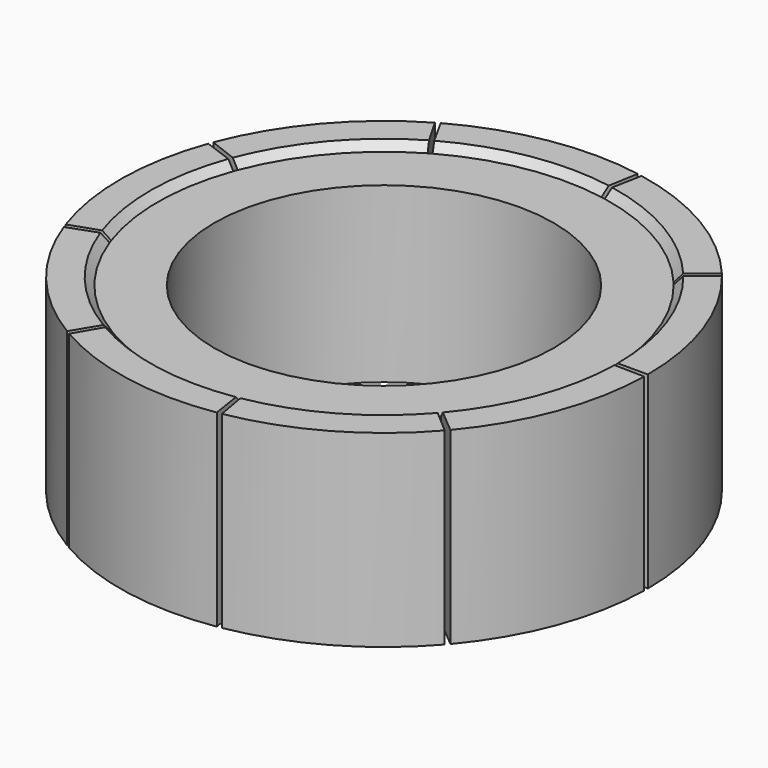
from build123d import *

# Parameters (mm, degrees)
CYLINDER015_R     = 4.5
CYLINDER015_DEPTH = 4.6
CYLINDER014_R     = 6
CYLINDER014_DEPTH = 4.6
CYLINDER013_W     = 6
CYLINDER013_H     = 5
CYLINDER013_ANGLE = 39
CYLINDER012_W     = 7
CYLINDER012_H     = 5
CYLINDER012_ANGLE = 39
CHAMFER007_SIZE   = 0.2
ARRAY001_COUNT    = 9


with BuildPart() as cilindro011:
    # Cylinder015 → Cylinder015 (new body)
    with BuildSketch(Plane.XY.offset(0.2)):
        Circle(CYLINDER015_R)
    extrude(amount=CYLINDER015_DEPTH)


with BuildPart() as cut007:
    # Cylinder014 → Cylinder014 (new body)
    with BuildSketch(Plane.XY.offset(0.2)):
        Circle(CYLINDER014_R)
    extrude(amount=CYLINDER014_DEPTH)

    # Cut007: cut Cilindro011
    add(cilindro011.part, mode=Mode.SUBTRACT)


with BuildPart() as cilindro009:
    # Cylinder013 → Cylinder013 (revolve)
    with BuildSketch(Plane.XZ):
        with Locations((3, 2.5)):
            Rectangle(CYLINDER013_W, CYLINDER013_H)
    revolve(axis=Axis((0, 0, 0), (0, 0, 1)), revolution_arc=CYLINDER013_ANGLE)


with BuildPart() as obj1:
    # Cylinder012 → Cylinder012 (revolve)
    with BuildSketch(Plane.XZ):
        with Locations((3.5, 2.5)):
            Rectangle(CYLINDER012_W, CYLINDER012_H)
    revolve(axis=Axis((0, 0, 0), (0, 0, 1)), revolution_arc=CYLINDER012_ANGLE)

    # Cut006: cut Cilindro009
    add(cilindro009.part, mode=Mode.SUBTRACT)

    # Chamfer007
    chamfer007_edges = [obj1.edges().sort_by_distance(p)[0] for p in [
        (5.655849, 2.002841, 5),
        (5.655849, 2.002841, 0),
    ]]
    chamfer(chamfer007_edges, length=CHAMFER007_SIZE)

    # Array001: obj1 ×9 about axis
    array001_axis = Axis((0, 0, 0), (0, 0, 1))


with BuildPart() as obj1_1:
    add(obj1.part)
    for i in range(1, ARRAY001_COUNT):
        add(obj1.part.rotate(array001_axis, i * 360 / ARRAY001_COUNT))

    # Fusion001: union Cut007
    add(cut007.part)


solid = obj1_1.part
